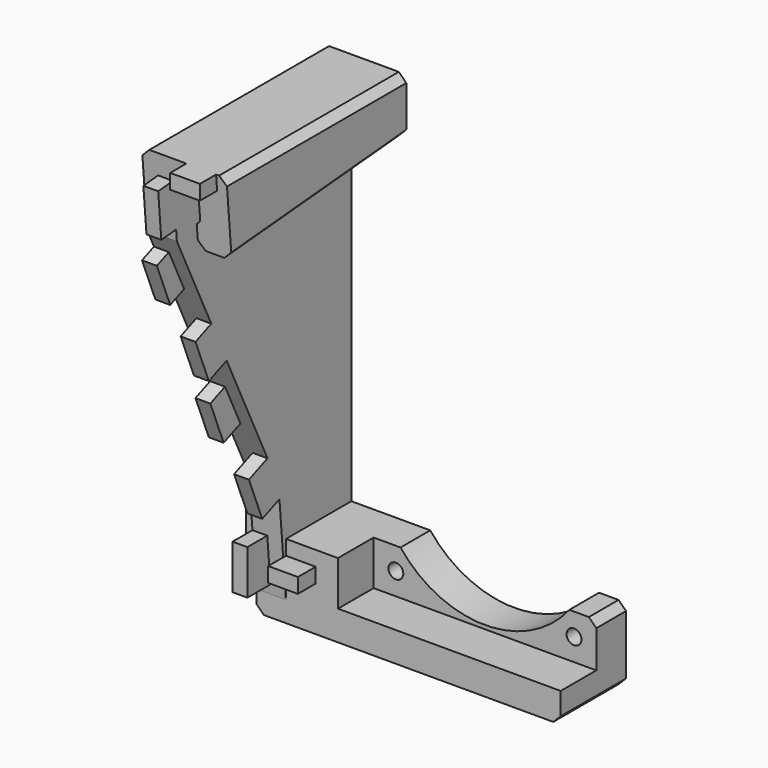
from build123d import *

# Parameters (mm, degrees)
BOX012_W             = 10
BOX012_H             = 4
BOX012_DEPTH         = 55
CHAMFER008_SIZE      = 7
CHAMFER009_SIZE      = 3
BOX005_W             = 4
BOX005_H             = 5
BOX005_DEPTH         = 2
BOX010_W             = 2
BOX010_H             = 5
BOX010_DEPTH         = 6
BOX010_ROLL_ANGLE    = 5
BOX007_W             = 2
BOX007_H             = 5
BOX007_DEPTH         = 6
BOX007_ROLL_ANGLE    = 22.0000000001
BOX011_W             = 4
BOX011_H             = 5
BOX011_DEPTH         = 2
BOX006_W             = 2
BOX006_H             = 5
BOX006_DEPTH         = 6
BOX009_W             = 2
BOX009_H             = 5
BOX009_DEPTH         = 6
BOX009_ROLL_ANGLE    = 22.0000000001
BOX008_W             = 2
BOX008_H             = 5
BOX008_DEPTH         = 6
BOX008_ROLL_ANGLE    = 22.0000000001
BOX004_W             = 2
BOX004_H             = 5
BOX004_DEPTH         = 6
BOX004_ROLL_ANGLE    = 22.0000000001
SKETCH002_W          = 34
SKETCH002_H          = 4
PAD001_DEPTH         = 30
EXTRUSION008_DEPTH   = 13.9308213426
BOX003_W             = 13
BOX003_H             = 10
BOX003_DEPTH         = 60
FACE006_W            = 8.14
FACE006_H            = 69.180787832
EXTRUSION006_DEPTH   = 0.4604923972
EXTRUSION005_DEPTH   = 8.14
FACE003_W            = 4
FACE003_H            = 14
EXTRUSION003_DEPTH   = 3.51
FACE004_W            = 3.51
FACE004_H            = 4
EXTRUSION004_DEPTH   = 69.180787832
FACE007_W            = 4
FACE007_H            = 69.180787832
EXTRUSION007_DEPTH   = 0.4131433628
FACE002_W            = 10
FACE002_H            = 4
EXTRUSION002_DEPTH   = 14
EXTRUSION_DEPTH      = 10
EXTRUSION001_DEPTH   = 10
FUSION001_ROLL_ANGLE = 5.0006445976
BOX002_W             = 13
BOX002_H             = 13
BOX002_DEPTH         = 49
BOX001_W             = 15
BOX001_H             = 11
BOX001_DEPTH         = 49
BOX_W                = 31
BOX_H                = 18
BOX_DEPTH            = 14
CYLINDER_R           = 14.5
CYLINDER_DEPTH       = 13
CYLINDER_ROLL_ANGLE  = 90.0000000001
SKETCH_R             = 1
PAD_DEPTH            = 11
CHAMFER_SIZE         = 1
CHAMFER001_SIZE      = 1
CHAMFER002_SIZE      = 1
CHAMFER003_SIZE      = 1
CHAMFER004_SIZE      = 1
CHAMFER005_SIZE      = 1
CHAMFER006_SIZE      = 1
EXTRUSION009_DEPTH   = 13.9308213426
POCKET_DEPTH         = 5
CHAMFER007_SIZE      = 1


with BuildPart() as fin002:
    # Box012 → Box012 (new body)
    with BuildSketch(Plane(origin=(-3, -4, -7), x_dir=(1, 0, 0), z_dir=(0, 0, 1))):
        with Locations((5, 2)):
            Rectangle(BOX012_W, BOX012_H)
    extrude(amount=BOX012_DEPTH)

    # Chamfer008
    chamfer008_edges = [fin002.edges().sort_by_distance(p)[0] for p in [
        (-3, -2, 48),
    ]]
    chamfer(chamfer008_edges, length=CHAMFER008_SIZE)

    # Chamfer009
    chamfer009_edges = [fin002.edges().sort_by_distance(p)[0] for p in [
        (-3, -2, -7),
    ]]
    chamfer(chamfer009_edges, length=CHAMFER009_SIZE)


with BuildPart() as cabletab001:
    # Box005 → Box005 (new body)
    with BuildSketch(Plane(origin=(8, -14, -1), x_dir=(1, 0, 0), z_dir=(0, 0, 1))):
        with Locations((2, 2.5)):
            Rectangle(BOX005_W, BOX005_H)
    extrude(amount=BOX005_DEPTH)


with BuildPart() as cabletab006:
    # Box010 → Box010 (new body)
    with BuildSketch(Plane.XY):
        with Locations((1, 2.5)):
            Rectangle(BOX010_W, BOX010_H)
    extrude(amount=BOX010_DEPTH)


with BuildPart() as cabletab006_1:
    # Box010 roll: moved
    add(cabletab006.part.rotate(Axis((0, 0, 0), (1, 0, 0)), BOX010_ROLL_ANGLE))


with BuildPart() as cabletab006_2:
    # Box010 placement: moved
    add(cabletab006_1.part.moved(Location((6, -32, 47))))


with BuildPart() as cabletab003:
    # Box007 → Box007 (new body)
    with BuildSketch(Plane.XY):
        with Locations((1, 2.5)):
            Rectangle(BOX007_W, BOX007_H)
    extrude(amount=BOX007_DEPTH)


with BuildPart() as cabletab003_1:
    # Box007 roll: moved
    add(cabletab003.part.rotate(Axis((0, 0, 0), (1, 0, 0)), BOX007_ROLL_ANGLE))


with BuildPart() as cabletab003_2:
    # Box007 placement: moved
    add(cabletab003_1.part.moved(Location((6, -24, 27))))


with BuildPart() as cabletab007:
    # Box011 → Box011 (new body)
    with BuildSketch(Plane(origin=(10, -33, 54), x_dir=(1, 0, 0), z_dir=(0, 0, 1))):
        with Locations((2, 2.5)):
            Rectangle(BOX011_W, BOX011_H)
    extrude(amount=BOX011_DEPTH)


with BuildPart() as cabletab002:
    # Box006 → Box006 (new body)
    with BuildSketch(Plane(origin=(4, -15, -3), x_dir=(1, 0, 0), z_dir=(0, 0, 1))):
        with Locations((1, 2.5)):
            Rectangle(BOX006_W, BOX006_H)
    extrude(amount=BOX006_DEPTH)


with BuildPart() as cabletab005:
    # Box009 → Box009 (new body)
    with BuildSketch(Plane.XY):
        with Locations((1, 2.5)):
            Rectangle(BOX009_W, BOX009_H)
    extrude(amount=BOX009_DEPTH)


with BuildPart() as cabletab005_1:
    # Box009 roll: moved
    add(cabletab005.part.rotate(Axis((0, 0, 0), (1, 0, 0)), BOX009_ROLL_ANGLE))


with BuildPart() as cabletab005_2:
    # Box009 placement: moved
    add(cabletab005_1.part.moved(Location((4, -28, 37))))


with BuildPart() as cabletab004:
    # Box008 → Box008 (new body)
    with BuildSketch(Plane.XY):
        with Locations((1, 2.5)):
            Rectangle(BOX008_W, BOX008_H)
    extrude(amount=BOX008_DEPTH)


with BuildPart() as cabletab004_1:
    # Box008 roll: moved
    add(cabletab004.part.rotate(Axis((0, 0, 0), (1, 0, 0)), BOX008_ROLL_ANGLE))


with BuildPart() as cabletab004_2:
    # Box008 placement: moved
    add(cabletab004_1.part.moved(Location((4, -19, 17))))


with BuildPart() as cabletabs:
    # Box004 → Box004 (new body)
    with BuildSketch(Plane.XY):
        with Locations((1, 2.5)):
            Rectangle(BOX004_W, BOX004_H)
    extrude(amount=BOX004_DEPTH)


with BuildPart() as cabletabs_1:
    # Box004 roll: moved
    add(cabletabs.part.rotate(Axis((0, 0, 0), (1, 0, 0)), BOX004_ROLL_ANGLE))


with BuildPart() as cabletabs_2:
    # Box004 placement: moved
    add(cabletabs_1.part.moved(Location((6, -15, 7))))

    # Fusion006: union cabletab001, cabletab006, cabletab003, cabletab007, cabletab002, cabletab005, cabletab004
    add(cabletab001.part)
    add(cabletab006_2.part)
    add(cabletab003_2.part)
    add(cabletab007.part)
    add(cabletab002.part)
    add(cabletab005_2.part)
    add(cabletab004_2.part)


with BuildPart() as pad001:
    # Sketch002 → Pad001 (new body)
    with BuildSketch(Plane.YZ):
        with Locations((-15, 58)):
            Rectangle(SKETCH002_W, SKETCH002_H)
    extrude(amount=PAD001_DEPTH)


with BuildPart() as extrusion008:
    # Face008 → Extrusion008 (new body)
    with BuildSketch(Plane(origin=(-17.578899357, -16.0333863028, 53.0614958622), x_dir=(-1, 0, 0), z_dir=(0, -0.9961937175, -0.0871669503))):
        Polygon((4.421100643, -4.5183191267), (4.421100643, -0.5183191267), (1.021100643, -0.5183191267), (1.021100643, 2.4816808733), (1.521100643, 2.9816808733), (1.521100643, 4.9816808733), (0.521100643, 5.9816808733), (-1.978899357, 5.9816808733), (-2.978899357, 4.9816808733), (-2.978899357, -3.5183191267), (-1.978899357, -4.5183191267), align=None)
    extrude(amount=EXTRUSION008_DEPTH)


with BuildPart() as cube003:
    # Box003 → Box003 (new body)
    with BuildSketch(Plane(origin=(-27, 0, 0), x_dir=(1, 0, 0), z_dir=(0, 0, 1))):
        with Locations((6.5, 5)):
            Rectangle(BOX003_W, BOX003_H)
    extrude(amount=BOX003_DEPTH)


with BuildPart() as extrusion006:
    # Face006 → Extrusion006 (new body)
    with BuildSketch(Plane(origin=(-17.93, -18.7549998831, 43.8980956594), x_dir=(-1, 0, 0), z_dir=(0, -0.9961937175, -0.0871669503))):
        Rectangle(FACE006_W, FACE006_H)
    extrude(amount=EXTRUSION006_DEPTH)


with BuildPart() as extrusion005:
    # Face005 → Extrusion005 (new body)
    with BuildSketch(Plane(origin=(-22, -17.0066799089, 44.0510736571), x_dir=(0, -1, 0), z_dir=(1, 0, 0))):
        Polygon((4.7634591209, -34.3057551071), (-1.2668191725, 34.6117111026), (-4.7634591209, 34.3057551071), (1.2668191725, -34.6117111026), align=None)
    extrude(amount=EXTRUSION005_DEPTH)


with BuildPart() as extrusion003:
    # Face003 → Extrusion003 (new body)
    with BuildSketch(Plane(origin=(-24, -15.1296920845, 2.4660065321), x_dir=(-1, 0, 0), z_dir=(0, -0.9961937175, -0.0871669503))):
        Rectangle(FACE003_W, FACE003_H)
    extrude(amount=-EXTRUSION003_DEPTH)


with BuildPart() as fusion002:
    # Face004 → Extrusion004 (new body)
    with BuildSketch(Plane(origin=(-24, -13.9915407622, 9.5923405523), x_dir=(0, 0.9961937175, 0.0871669503), z_dir=(0, -0.0871669503, 0.9961937175))):
        Rectangle(FACE004_W, FACE004_H)
    extrude(amount=EXTRUSION004_DEPTH)

    # Fusion002: union Extrusion003
    add(extrusion003.part)


with BuildPart() as fusion003:
    # Face007 → Extrusion007 (new body)
    with BuildSketch(Plane(origin=(-24, -18.7549998831, 43.8980956594), x_dir=(-1, 0, 0), z_dir=(0, -0.9961937175, -0.0871669503))):
        Rectangle(FACE007_W, FACE007_H)
    extrude(amount=EXTRUSION007_DEPTH)

    # Fusion003: union Extrusion006, Extrusion005, Fusion002
    add(extrusion006.part)
    add(extrusion005.part)
    add(fusion002.part)


with BuildPart() as extrusion002:
    # Face002 → Extrusion002 (new body)
    with BuildSketch(Plane(origin=(-24, -15, 11), x_dir=(0, -1, 0), z_dir=(0, 0, -1))):
        Rectangle(FACE002_W, FACE002_H)
    extrude(amount=EXTRUSION002_DEPTH)


with BuildPart() as extrusion:
    # Face → Extrusion (new body)
    with BuildSketch(Plane(origin=(-22.5493005697, -10, 39.3433444568), x_dir=(-1, 0, 0), z_dir=(0, -1, 0))):
        Polygon((3.4506994303, 28.3433444568), (-0.5493005697, 28.3433444568), (-0.5493005697, -15.6566555432), (-3.9493005697, -15.6566555432), (-3.9493005697, -12.6566555432), (-3.4493005697, -12.1566555432), (-3.4493005697, -10.1566555432), (-4.4493005697, -9.1566555432), (-6.9493005697, -9.1566555432), (-7.9493005697, -10.1566555432), (-7.9493005697, -18.6566555432), (-6.9493005697, -19.6566555432), (2.4506994303, -19.6566555432), (3.4506994303, -18.6566555432), align=None)
    extrude(amount=EXTRUSION_DEPTH)


with BuildPart() as cut005:
    # Face001 → Extrusion001 (new body)
    with BuildSketch(Plane(origin=(-22.5493005697, -10, 39.3433444568), x_dir=(1, 0, 0), z_dir=(0, 1, 0))):
        Polygon((0.5493005697, 28.3433444568), (-3.4506994303, 28.3433444568), (-3.4506994303, -18.6566555432), (-2.4506994303, -19.6566555432), (6.9493005697, -19.6566555432), (7.9493005697, -18.6566555432), (7.9493005697, -10.1566555432), (6.9493005697, -9.1566555432), (4.4493005697, -9.1566555432), (3.4493005697, -10.1566555432), (3.4493005697, -12.1566555432), (3.9493005697, -12.6566555432), (3.9493005697, -15.6566555432), (0.5493005697, -15.6566555432), align=None)
    extrude(amount=EXTRUSION001_DEPTH)

    # Fusion: union Extrusion
    add(extrusion.part)

    # Fusion001: union Extrusion002
    add(extrusion002.part)


with BuildPart() as cut005_1:
    # Fusion001 roll: moved
    add(cut005.part.rotate(Axis((0, 0, 0), (1, 0, 0)), FUSION001_ROLL_ANGLE))


with BuildPart() as cut005_2:
    # Fusion001 placement: moved
    add(cut005_1.part.moved(Location((0, 5.1428500666, 0.2245706677))))

    # Cut004: cut Fusion003
    add(fusion003.part, mode=Mode.SUBTRACT)

    # Cut005: cut Cube003
    add(cube003.part, mode=Mode.SUBTRACT)


with BuildPart() as cube002:
    # Box002 → Box002 (new body)
    with BuildSketch(Plane(origin=(-27, -12, 11), x_dir=(1, 0, 0), z_dir=(0, 0, 1))):
        with Locations((6.5, 6.5)):
            Rectangle(BOX002_W, BOX002_H)
    extrude(amount=BOX002_DEPTH)


with BuildPart() as cube001:
    # Box001 → Box001 (new body)
    with BuildSketch(Plane(origin=(-29, -21, 11), x_dir=(1, 0, 0), z_dir=(0, 0, 1))):
        with Locations((7.5, 5.5)):
            Rectangle(BOX001_W, BOX001_H)
    extrude(amount=BOX001_DEPTH)


with BuildPart() as cube:
    # Box → Box (new body)
    with BuildSketch(Plane(origin=(-15, -23, -3), x_dir=(1, 0, 0), z_dir=(0, 0, 1))):
        with Locations((15.5, 9)):
            Rectangle(BOX_W, BOX_H)
    extrude(amount=BOX_DEPTH)


with BuildPart() as cylinder:
    # Cylinder → Cylinder (new body)
    with BuildSketch(Plane.XY):
        Circle(CYLINDER_R)
    extrude(amount=CYLINDER_DEPTH)


with BuildPart() as cylinder_1:
    # Cylinder roll: moved
    add(cylinder.part.rotate(Axis((0, 0, 0), (1, 0, 0)), CYLINDER_ROLL_ANGLE))


with BuildPart() as cylinder_2:
    # Cylinder placement: moved
    add(cylinder_1.part.moved(Location((0, 1, 12))))


with BuildPart() as fusion004:
    # Sketch → Pad (new body)
    with BuildSketch(Plane.XZ):
        Polygon((15, -7), (15, 3), (-22, 3), (-22, 55), (-18.6, 55), (-18.6, 52), (-19.1, 51.5), (-19.1, 48.5), (-14.6, 48.5), (-14.6, 59), (-26, 59), (-26, -7), align=None)
        with Locations((-12, 0)):
            Circle(SKETCH_R, mode=Mode.SUBTRACT)
        with Locations((12, 0)):
            Circle(SKETCH_R, mode=Mode.SUBTRACT)
    extrude(amount=PAD_DEPTH)

    # Cut: cut Cylinder
    add(cylinder_2.part, mode=Mode.SUBTRACT)

    # Cut001: cut Cube
    add(cube.part, mode=Mode.SUBTRACT)

    # Chamfer
    chamfer_edges = [fusion004.edges().sort_by_distance(p)[0] for p in [
        (15, -5.5, -7),
    ]]
    chamfer(chamfer_edges, length=CHAMFER_SIZE)

    # Chamfer001
    chamfer001_edges = [fusion004.edges().sort_by_distance(p)[0] for p in [
        (-26, -5.5, -7),
    ]]
    chamfer(chamfer001_edges, length=CHAMFER001_SIZE)

    # Chamfer002
    chamfer002_edges = [fusion004.edges().sort_by_distance(p)[0] for p in [
        (-26, -5.5, 59),
    ]]
    chamfer(chamfer002_edges, length=CHAMFER002_SIZE)

    # Chamfer003
    chamfer003_edges = [fusion004.edges().sort_by_distance(p)[0] for p in [
        (-14.6, -5.5, 59),
    ]]
    chamfer(chamfer003_edges, length=CHAMFER003_SIZE)

    # Chamfer004
    chamfer004_edges = [fusion004.edges().sort_by_distance(p)[0] for p in [
        (-14.6, -5.5, 48.5),
    ]]
    chamfer(chamfer004_edges, length=CHAMFER004_SIZE)

    # Chamfer005
    chamfer005_edges = [fusion004.edges().sort_by_distance(p)[0] for p in [
        (-19.1, -5.5, 48.5),
    ]]
    chamfer(chamfer005_edges, length=CHAMFER005_SIZE)

    # Chamfer006
    chamfer006_edges = [fusion004.edges().sort_by_distance(p)[0] for p in [
        (15, -2.5, 3),
    ]]
    chamfer(chamfer006_edges, length=CHAMFER006_SIZE)

    # Cut002: cut Cube001
    add(cube001.part, mode=Mode.SUBTRACT)

    # Cut003: cut Cube002
    add(cube002.part, mode=Mode.SUBTRACT)

    # Fusion004: union Cut005
    add(cut005_2.part)


with BuildPart() as fusion007:
    # Face009 → Extrusion009 (new body)
    with BuildSketch(Plane(origin=(-23.9956483899, -14.3298412993, 33.5924101077), x_dir=(-1, 0, 0), z_dir=(0, -0.9961937175, -0.0871669503))):
        Polygon((2.0043516101, 23.9382071366), (-1.9956483899, 23.9382071366), (-1.9956483899, -20.0617928634), (-1.9956483899, -24.0617928634), (1.0043516101, -24.0617928634), (2.0043516101, -23.0617928634), align=None)
    extrude(amount=EXTRUSION009_DEPTH)

    # Sketch001 → Pocket (cut)
    with BuildSketch(Plane.YZ.offset(-22)):
        Polygon((-12.153362, 9.710751), (-30, 47.063831), (-30, 0), align=None)
    extrude(amount=-POCKET_DEPTH, mode=Mode.SUBTRACT)

    # Fusion005: union Extrusion008, Fusion004
    add(extrusion008.part)
    add(fusion004.part)


with BuildPart() as fusion007_1:
    # Fusion005 placement: moved
    add(fusion007.part.moved(Location((30, 0, 0))))

    # Cut006: cut Pad001
    add(pad001.part, mode=Mode.SUBTRACT)

    # Chamfer007
    chamfer007_edges = [fusion007_1.edges().sort_by_distance(p)[0] for p in [
        (4, -11.406738, 56),
        (15.4, -11.406738, 56),
    ]]
    chamfer(chamfer007_edges, length=CHAMFER007_SIZE)

    # Fusion007: union fin002, cabletabs
    add(fin002.part)
    add(cabletabs_2.part)


solid = fusion007_1.part
